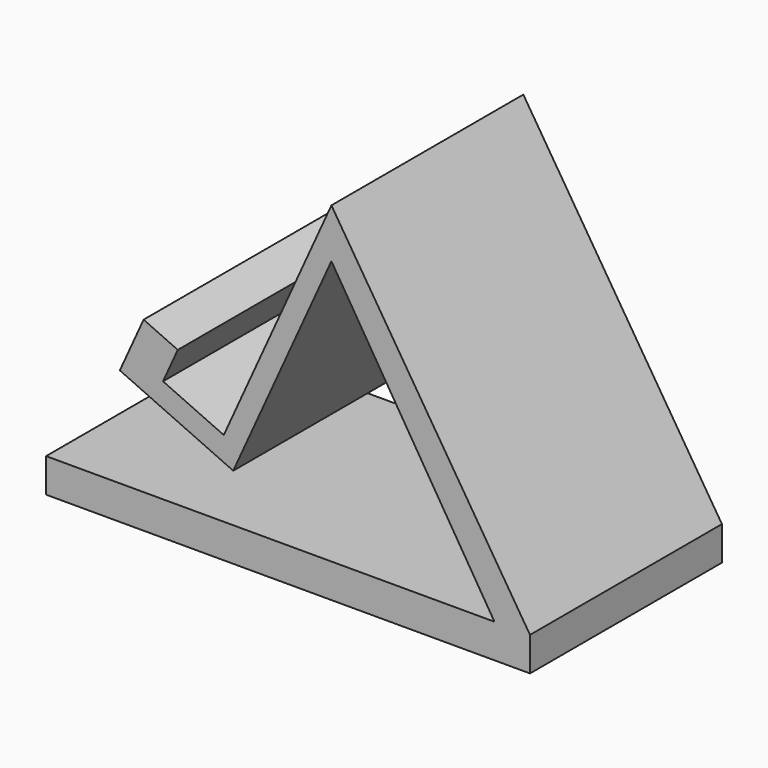
from build123d import *

# Parameters (mm, degrees)
F1_DEPTH = 25


with BuildPart() as f1:
    # F0 (on Front) → F1 (new body, symmetric)
    with BuildSketch(Plane.XZ):
        Polygon((-51.410791, 7.079025), (-51.410791, 0), (49.450211, 0), (49.450211, 7.079025), (8.060168, 72.431728), (-14.377594, 22.981515), (-27.034995, 28.724741), (-23.962071, 35.497107), (-31.083003, 38.728191), (-36.04229, 27.798498), (-12.408246, 17.074681), (8.060168, 62.18468), (42.04357, 7.079025), align=None)
    extrude(amount=F1_DEPTH, both=True)


solid = f1.part
